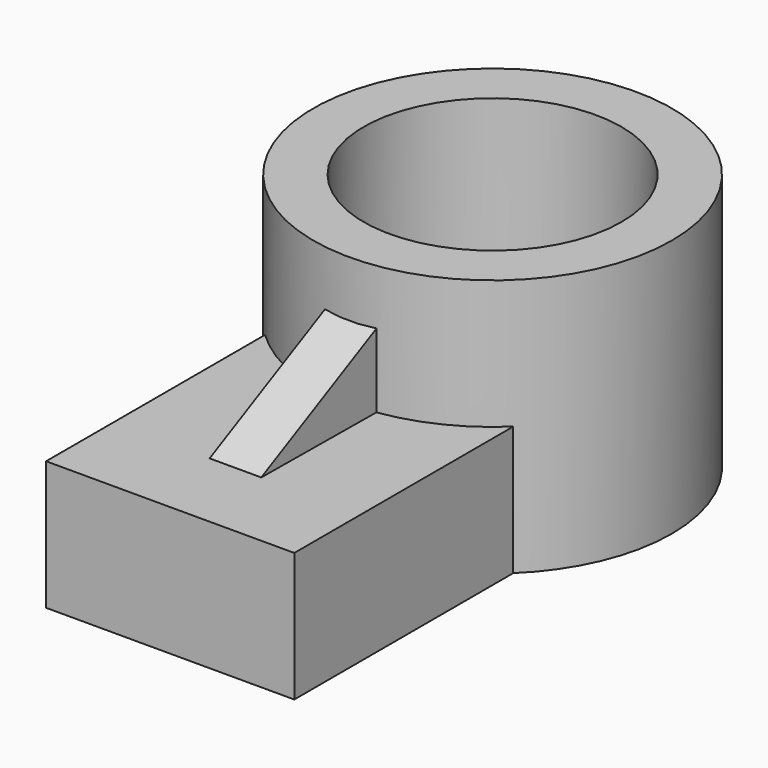
from build123d import *

# Parameters (mm, degrees)
F0_R     = 35.27027
F0_R_2   = 25.372409
F1_DEPTH = 50.8
F2_W     = 48.85688
F2_H     = 53.797463
F3_DEPTH = 25.4
F5_DEPTH = 5.08


with BuildPart() as f1:
    # F0 (on Top) → F1 (new body)
    with BuildSketch(Plane.XY):
        with Locations((0, 35.27027)):
            Circle(F0_R)
        with Locations((0, 35.27027)):
            Circle(F0_R_2, mode=Mode.SUBTRACT)
    extrude(amount=F1_DEPTH)

    # F2 (on Top) → F3 (join)
    with BuildSketch(Plane.XY):
        with Locations((0, -17.154805)):
            Rectangle(F2_W, F2_H)
    extrude(amount=F3_DEPTH)

    # F4 (on Right) → F5 (join, symmetric)
    with BuildSketch(Plane.YZ):
        Polygon((-27.996639, 25.663584), (4.117153, 25.389109), (4.117153, 41.857719), align=None)
    extrude(amount=F5_DEPTH, both=True)


solid = f1.part
